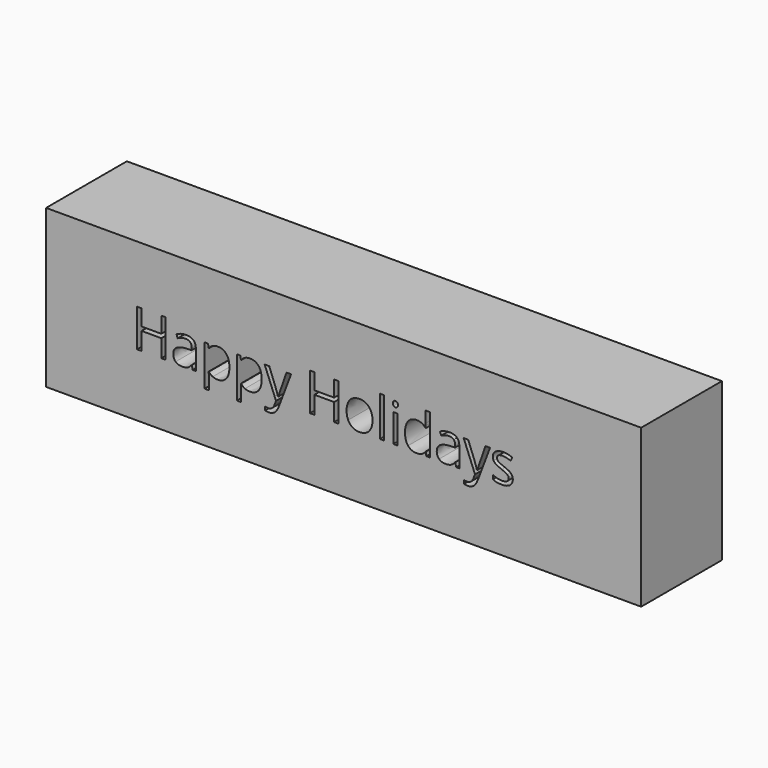
from build123d import *

# Parameters (mm, degrees)
F0_W     = 524.1265296936
F0_H     = 138.8140618801
F1_DEPTH = 12.7
F2_W     = 524.1265296936
F2_H     = 138.8140618801
F2_W_2   = 3.7591973244
F2_H_2   = 24.8078050794
F2_H_3   = 35.2234616354
F3_DEPTH = 76.2


with BuildPart() as f1:
    # F0 (on Front) → F1 (new body)
    with BuildSketch(Plane.XZ):
        Rectangle(F0_W, F0_H)
    extrude(amount=F1_DEPTH)

    # F2 (on face) → F3 (join)
    with BuildSketch(Plane.XZ.offset(12.7)):
        Rectangle(F2_W, F2_H)
        with BuildLine():
            Line((-130.1586714031, -14.2141859978), (-132.9472859886, -14.2141859978))
            Line((-132.9472859886, -14.2141859978), (-133.6933309297, -10.6795264712))
            Line((-133.6933309297, -10.6795264712), (-133.8744097989, -10.6795264712))
            add(Edge.make_bspline(
                [(-133.8744097989, -10.6795264712), (-135.7286574195, -13.0118223064), (-137.5720403078, -13.8411635273)],
                knots=[0, 0, 0, 1, 1, 1], degree=2))
            add(Edge.make_bspline(
                [(-137.5720403078, -13.8411635273), (-139.4154231962, -14.6705047482), (-142.1823083175, -14.6705047482)],
                knots=[0, 0, 0, 1, 1, 1], degree=2))
            add(Edge.make_bspline(
                [(-142.1823083175, -14.6705047482), (-145.8690740943, -14.6705047482), (-147.9623458221, -12.7655550443)],
                knots=[0, 0, 0, 1, 1, 1], degree=2))
            add(Edge.make_bspline(
                [(-147.9623458221, -12.7655550443), (-150.05561755, -10.8606053404), (-150.05561755, -7.3549184328)],
                knots=[0, 0, 0, 1, 1, 1], degree=2))
            add(Edge.make_bspline(
                [(-150.05561755, -7.3549184328), (-150.05561755, 0.1562330613), (-138.0392237904, 0.5183907997)],
                knots=[0, 0, 0, 1, 1, 1], degree=2))
            Line((-138.0392237904, 0.5183907997), (-133.8309508703, 0.6560107403))
            Line((-133.8309508703, 0.6560107403), (-133.8309508703, 2.1988027058))
            add(Edge.make_bspline(
                [(-133.8309508703, 2.1988027058), (-133.8309508703, 5.1177940772), (-135.0840166451, 6.5084797926)],
                knots=[0, 0, 0, 1, 1, 1], degree=2))
            add(Edge.make_bspline(
                [(-135.0840166451, 6.5084797926), (-136.3370824199, 7.899165508), (-139.1039675412, 7.899165508)],
                knots=[0, 0, 0, 1, 1, 1], degree=2))
            add(Edge.make_bspline(
                [(-139.1039675412, 7.899165508), (-142.2040377818, 7.899165508), (-146.1153413564, 6.0014589589)],
                knots=[0, 0, 0, 1, 1, 1], degree=2))
            Line((-146.1153413564, 6.0014589589), (-147.2742461192, 8.8769914016))
            add(Edge.make_bspline(
                [(-147.2742461192, 8.8769914016), (-145.441727963, 9.8693036048), (-143.2579168005, 10.4342696767)],
                knots=[0, 0, 0, 1, 1, 1], degree=2))
            add(Edge.make_bspline(
                [(-143.2579168005, 10.4342696767), (-141.074105638, 10.9992357486), (-138.8721865886, 10.9992357486)],
                knots=[0, 0, 0, 1, 1, 1], degree=2))
            add(Edge.make_bspline(
                [(-138.8721865886, 10.9992357486), (-134.4393758708, 10.9992357486), (-132.2990236369, 9.0327192292)],
                knots=[0, 0, 0, 1, 1, 1], degree=2))
            add(Edge.make_bspline(
                [(-132.2990236369, 9.0327192292), (-130.1586714031, 7.0662027097), (-130.1586714031, 2.7203098491)],
                knots=[0, 0, 0, 1, 1, 1], degree=2))
            Line((-130.1586714031, 2.7203098491), (-130.1586714031, -14.2141859978))
        make_face(mode=Mode.SUBTRACT)
        with BuildLine():
            add(Edge.make_bspline(
                [(-103.3046751018, -11.2843298943), (-106.0317228718, -14.6705047482), (-110.8773934114, -14.6705047482)],
                knots=[0, 0, 0, 1, 1, 1], degree=2))
            add(Edge.make_bspline(
                [(-110.8773934114, -14.6705047482), (-113.3038502586, -14.6705047482), (-115.3065825519, -13.7759751344)],
                knots=[0, 0, 0, 1, 1, 1], degree=2))
            add(Edge.make_bspline(
                [(-115.3065825519, -13.7759751344), (-117.3093148451, -12.8814455206), (-118.6637847867, -11.0199547453)],
                knots=[0, 0, 0, 1, 1, 1], degree=2))
            Line((-118.6637847867, -11.0199547453), (-118.9390246679, -11.0199547453))
            add(Edge.make_bspline(
                [(-118.9390246679, -11.0199547453), (-118.6637847867, -13.1929011756), (-118.6637847867, -15.1413098081)],
                knots=[0, 0, 0, 1, 1, 1], degree=2))
            Line((-118.6637847867, -15.1413098081), (-118.6637847867, -25.3541580306))
            Line((-118.6637847867, -25.3541580306), (-122.4229821111, -25.3541580306))
            Line((-122.4229821111, -25.3541580306), (-122.4229821111, 10.5936190816))
            Line((-122.4229821111, 10.5936190816), (-119.3663707992, 10.5936190816))
            Line((-119.3663707992, 10.5936190816), (-118.8448636559, 7.1965794955))
            Line((-118.8448636559, 7.1965794955), (-118.6637847867, 7.1965794955))
            add(Edge.make_bspline(
                [(-118.6637847867, 7.1965794955), (-117.2151538332, 9.23914914), (-115.2920962423, 10.144543486)],
                knots=[0, 0, 0, 1, 1, 1], degree=2))
            add(Edge.make_bspline(
                [(-115.2920962423, 10.144543486), (-113.3690386515, 11.049937832), (-110.8773934114, 11.049937832)],
                knots=[0, 0, 0, 1, 1, 1], degree=2))
            add(Edge.make_bspline(
                [(-110.8773934114, 11.049937832), (-105.9448050146, 11.049937832), (-103.2612161731, 7.6746277102)],
                knots=[0, 0, 0, 1, 1, 1], degree=2))
            add(Edge.make_bspline(
                [(-103.2612161731, 7.6746277102), (-100.5776273317, 4.2993175884), (-100.5776273317, -1.7849324164)],
                knots=[0, 0, 0, 1, 1, 1], degree=2))
            add(Edge.make_bspline(
                [(-100.5776273317, -1.7849324164), (-100.5776273317, -7.8981550404), (-103.3046751018, -11.2843298943)],
                knots=[0, 0, 0, 1, 1, 1], degree=2))
        make_face(mode=Mode.SUBTRACT)
        with BuildLine():
            add(Edge.make_bspline(
                [(-74.8970221028, -11.2843298943), (-77.6240698728, -14.6705047482), (-82.4697404124, -14.6705047482)],
                knots=[0, 0, 0, 1, 1, 1], degree=2))
            add(Edge.make_bspline(
                [(-82.4697404124, -14.6705047482), (-84.8961972596, -14.6705047482), (-86.8989295529, -13.7759751344)],
                knots=[0, 0, 0, 1, 1, 1], degree=2))
            add(Edge.make_bspline(
                [(-86.8989295529, -13.7759751344), (-88.9016618461, -12.8814455206), (-90.2561317877, -11.0199547453)],
                knots=[0, 0, 0, 1, 1, 1], degree=2))
            Line((-90.2561317877, -11.0199547453), (-90.5313716689, -11.0199547453))
            add(Edge.make_bspline(
                [(-90.5313716689, -11.0199547453), (-90.2561317877, -13.1929011756), (-90.2561317877, -15.1413098081)],
                knots=[0, 0, 0, 1, 1, 1], degree=2))
            Line((-90.2561317877, -15.1413098081), (-90.2561317877, -25.3541580306))
            Line((-90.2561317877, -25.3541580306), (-94.0153291122, -25.3541580306))
            Line((-94.0153291122, -25.3541580306), (-94.0153291122, 10.5936190816))
            Line((-94.0153291122, 10.5936190816), (-90.9587178002, 10.5936190816))
            Line((-90.9587178002, 10.5936190816), (-90.4372106569, 7.1965794955))
            Line((-90.4372106569, 7.1965794955), (-90.2561317877, 7.1965794955))
            add(Edge.make_bspline(
                [(-90.2561317877, 7.1965794955), (-88.8075008342, 9.23914914), (-86.8844432433, 10.144543486)],
                knots=[0, 0, 0, 1, 1, 1], degree=2))
            add(Edge.make_bspline(
                [(-86.8844432433, 10.144543486), (-84.9613856525, 11.049937832), (-82.4697404124, 11.049937832)],
                knots=[0, 0, 0, 1, 1, 1], degree=2))
            add(Edge.make_bspline(
                [(-82.4697404124, 11.049937832), (-77.5371520156, 11.049937832), (-74.8535631742, 7.6746277102)],
                knots=[0, 0, 0, 1, 1, 1], degree=2))
            add(Edge.make_bspline(
                [(-74.8535631742, 7.6746277102), (-72.1699743327, 4.2993175884), (-72.1699743327, -1.7849324164)],
                knots=[0, 0, 0, 1, 1, 1], degree=2))
            add(Edge.make_bspline(
                [(-72.1699743327, -1.7849324164), (-72.1699743327, -7.8981550404), (-74.8970221028, -11.2843298943)],
                knots=[0, 0, 0, 1, 1, 1], degree=2))
        make_face(mode=Mode.SUBTRACT)
        with BuildLine():
            Line((-59.5379124178, -14.3518059384), (-69.5479523068, 10.5936190816))
            Line((-69.5479523068, 10.5936190816), (-65.5135151012, 10.5936190816))
            Line((-65.5135151012, 10.5936190816), (-60.0811490254, -3.5522621798))
            add(Edge.make_bspline(
                [(-60.0811490254, -3.5522621798), (-58.2993329525, -8.3979327194), (-57.8647436665, -10.5491496854)],
                knots=[0, 0, 0, 1, 1, 1], degree=2))
            Line((-57.8647436665, -10.5491496854), (-57.6836647973, -10.5491496854))
            add(Edge.make_bspline(
                [(-57.6836647973, -10.5491496854), (-57.3939386066, -9.3902449225), (-56.4523284868, -6.5943871822)],
                knots=[0, 0, 0, 1, 1, 1], degree=2))
            add(Edge.make_bspline(
                [(-56.4523284868, -6.5943871822), (-55.510718367, -3.7985294419), (-50.302890089, 10.5936190816)],
                knots=[0, 0, 0, 1, 1, 1], degree=2))
            Line((-50.302890089, 10.5936190816), (-46.2756960381, 10.5936190816))
            Line((-46.2756960381, 10.5936190816), (-56.9376198562, -17.6546845125))
            add(Edge.make_bspline(
                [(-56.9376198562, -17.6546845125), (-58.5238707503, -21.8412279683), (-60.6388719425, -23.5976929994)],
                knots=[0, 0, 0, 1, 1, 1], degree=2))
            add(Edge.make_bspline(
                [(-60.6388719425, -23.5976929994), (-62.7538731347, -25.3541580306), (-65.832213911, -25.3541580306)],
                knots=[0, 0, 0, 1, 1, 1], degree=2))
            add(Edge.make_bspline(
                [(-65.832213911, -25.3541580306), (-67.5560847457, -25.3541580306), (-69.229253497, -24.9630276731)],
                knots=[0, 0, 0, 1, 1, 1], degree=2))
            Line((-69.229253497, -24.9630276731), (-69.229253497, -21.9571184445))
            add(Edge.make_bspline(
                [(-69.229253497, -21.9571184445), (-67.983430877, -22.2251151709), (-66.4478820662, -22.2251151709)],
                knots=[0, 0, 0, 1, 1, 1], degree=2))
            add(Edge.make_bspline(
                [(-66.4478820662, -22.2251151709), (-62.5727942655, -22.2251151709), (-60.9213549784, -17.8792223103)],
                knots=[0, 0, 0, 1, 1, 1], degree=2))
            Line((-60.9213549784, -17.8792223103), (-59.5379124178, -14.3518059384))
        make_face(mode=Mode.SUBTRACT)
        with BuildLine():
            add(Edge.make_bspline(
                [(22.3423306539, 7.5840882756), (25.409806698, 4.1182387193), (25.409806698, -1.7849324164)],
                knots=[0, 0, 0, 1, 1, 1], degree=2))
            add(Edge.make_bspline(
                [(25.409806698, -1.7849324164), (25.409806698, -7.8546961118), (22.3568169634, -11.26260043)],
                knots=[0, 0, 0, 1, 1, 1], degree=2))
            add(Edge.make_bspline(
                [(22.3568169634, -11.26260043), (19.3038272288, -14.6705047482), (13.9149200816, -14.6705047482)],
                knots=[0, 0, 0, 1, 1, 1], degree=2))
            add(Edge.make_bspline(
                [(13.9149200816, -14.6705047482), (10.5830688885, -14.6705047482), (8.0045057912, -13.1059833184)],
                knots=[0, 0, 0, 1, 1, 1], degree=2))
            add(Edge.make_bspline(
                [(8.0045057912, -13.1059833184), (5.4259426939, -11.5414618886), (4.0207706689, -8.6224705172)],
                knots=[0, 0, 0, 1, 1, 1], degree=2))
            add(Edge.make_bspline(
                [(4.0207706689, -8.6224705172), (2.615598644, -5.7034791458), (2.615598644, -1.7849324164)],
                knots=[0, 0, 0, 1, 1, 1], degree=2))
            add(Edge.make_bspline(
                [(2.615598644, -1.7849324164), (2.615598644, 4.2775881241), (5.6504804917, 7.6637629781)],
                knots=[0, 0, 0, 1, 1, 1], degree=2))
            add(Edge.make_bspline(
                [(5.6504804917, 7.6637629781), (8.6853623393, 11.049937832), (14.0742694865, 11.049937832)],
                knots=[0, 0, 0, 1, 1, 1], degree=2))
            add(Edge.make_bspline(
                [(14.0742694865, 11.049937832), (19.2748546097, 11.049937832), (22.3423306539, 7.5840882756)],
                knots=[0, 0, 0, 1, 1, 1], degree=2))
        make_face(mode=Mode.SUBTRACT)
        with Locations((45.6073437678, -1.8102834581)):
            Rectangle(F2_W_2, F2_H_2, mode=Mode.SUBTRACT)
        with BuildLine():
            Line((101.9047641999, -14.2141859978), (99.1161496143, -14.2141859978))
            Line((99.1161496143, -14.2141859978), (98.3701046732, -10.6795264712))
            Line((98.3701046732, -10.6795264712), (98.1890258041, -10.6795264712))
            add(Edge.make_bspline(
                [(98.1890258041, -10.6795264712), (96.3347781835, -13.0118223064), (94.4913952951, -13.8411635273)],
                knots=[0, 0, 0, 1, 1, 1], degree=2))
            add(Edge.make_bspline(
                [(94.4913952951, -13.8411635273), (92.6480124067, -14.6705047482), (89.8811272855, -14.6705047482)],
                knots=[0, 0, 0, 1, 1, 1], degree=2))
            add(Edge.make_bspline(
                [(89.8811272855, -14.6705047482), (86.1943615087, -14.6705047482), (84.1010897808, -12.7655550443)],
                knots=[0, 0, 0, 1, 1, 1], degree=2))
            add(Edge.make_bspline(
                [(84.1010897808, -12.7655550443), (82.007818053, -10.8606053404), (82.007818053, -7.3549184328)],
                knots=[0, 0, 0, 1, 1, 1], degree=2))
            add(Edge.make_bspline(
                [(82.007818053, -7.3549184328), (82.007818053, 0.1562330613), (94.0242118126, 0.5183907997)],
                knots=[0, 0, 0, 1, 1, 1], degree=2))
            Line((94.0242118126, 0.5183907997), (98.2324847327, 0.6560107403))
            Line((98.2324847327, 0.6560107403), (98.2324847327, 2.1988027058))
            add(Edge.make_bspline(
                [(98.2324847327, 2.1988027058), (98.2324847327, 5.1177940772), (96.9794189578, 6.5084797926)],
                knots=[0, 0, 0, 1, 1, 1], degree=2))
            add(Edge.make_bspline(
                [(96.9794189578, 6.5084797926), (95.726353183, 7.899165508), (92.9594680618, 7.899165508)],
                knots=[0, 0, 0, 1, 1, 1], degree=2))
            add(Edge.make_bspline(
                [(92.9594680618, 7.899165508), (89.8593978212, 7.899165508), (85.9480942466, 6.0014589589)],
                knots=[0, 0, 0, 1, 1, 1], degree=2))
            Line((85.9480942466, 6.0014589589), (84.7891894838, 8.8769914016))
            add(Edge.make_bspline(
                [(84.7891894838, 8.8769914016), (86.62170764, 9.8693036048), (88.8055188025, 10.4342696767)],
                knots=[0, 0, 0, 1, 1, 1], degree=2))
            add(Edge.make_bspline(
                [(88.8055188025, 10.4342696767), (90.9893299649, 10.9992357486), (93.1912490143, 10.9992357486)],
                knots=[0, 0, 0, 1, 1, 1], degree=2))
            add(Edge.make_bspline(
                [(93.1912490143, 10.9992357486), (97.6240597322, 10.9992357486), (99.764411966, 9.0327192292)],
                knots=[0, 0, 0, 1, 1, 1], degree=2))
            add(Edge.make_bspline(
                [(99.764411966, 9.0327192292), (101.9047641999, 7.0662027097), (101.9047641999, 2.7203098491)],
                knots=[0, 0, 0, 1, 1, 1], degree=2))
            Line((101.9047641999, 2.7203098491), (101.9047641999, -14.2141859978))
        make_face(mode=Mode.SUBTRACT)
        with BuildLine():
            Line((115.7102171872, -14.3518059384), (105.7001772982, 10.5936190816))
            Line((105.7001772982, 10.5936190816), (109.7346145038, 10.5936190816))
            Line((109.7346145038, 10.5936190816), (115.1669805796, -3.5522621798))
            add(Edge.make_bspline(
                [(115.1669805796, -3.5522621798), (116.9487966524, -8.3979327194), (117.3833859385, -10.5491496854)],
                knots=[0, 0, 0, 1, 1, 1], degree=2))
            Line((117.3833859385, -10.5491496854), (117.5644648077, -10.5491496854))
            add(Edge.make_bspline(
                [(117.5644648077, -10.5491496854), (117.8541909984, -9.3902449225), (118.7958011182, -6.5943871822)],
                knots=[0, 0, 0, 1, 1, 1], degree=2))
            add(Edge.make_bspline(
                [(118.7958011182, -6.5943871822), (119.737411238, -3.7985294419), (124.945239516, 10.5936190816)],
                knots=[0, 0, 0, 1, 1, 1], degree=2))
            Line((124.945239516, 10.5936190816), (128.9724335669, 10.5936190816))
            Line((128.9724335669, 10.5936190816), (118.3105097488, -17.6546845125))
            add(Edge.make_bspline(
                [(118.3105097488, -17.6546845125), (116.7242588546, -21.8412279683), (114.6092576625, -23.5976929994)],
                knots=[0, 0, 0, 1, 1, 1], degree=2))
            add(Edge.make_bspline(
                [(114.6092576625, -23.5976929994), (112.4942564703, -25.3541580306), (109.415915694, -25.3541580306)],
                knots=[0, 0, 0, 1, 1, 1], degree=2))
            add(Edge.make_bspline(
                [(109.415915694, -25.3541580306), (107.6920448593, -25.3541580306), (106.018876108, -24.9630276731)],
                knots=[0, 0, 0, 1, 1, 1], degree=2))
            Line((106.018876108, -24.9630276731), (106.018876108, -21.9571184445))
            add(Edge.make_bspline(
                [(106.018876108, -21.9571184445), (107.264698728, -22.2251151709), (108.8002475388, -22.2251151709)],
                knots=[0, 0, 0, 1, 1, 1], degree=2))
            add(Edge.make_bspline(
                [(108.8002475388, -22.2251151709), (112.6753353395, -22.2251151709), (114.3267746265, -17.8792223103)],
                knots=[0, 0, 0, 1, 1, 1], degree=2))
            Line((114.3267746265, -17.8792223103), (115.7102171872, -14.3518059384))
        make_face(mode=Mode.SUBTRACT)
        with BuildLine():
            add(Edge.make_bspline(
                [(147.4497213793, -3.3494538463), (148.9997564996, -4.979163669), (148.9997564996, -7.4490794448)],
                knots=[0, 0, 0, 1, 1, 1], degree=2))
            add(Edge.make_bspline(
                [(148.9997564996, -7.4490794448), (148.9997564996, -10.9113074238), (146.4211934023, -12.790906086)],
                knots=[0, 0, 0, 1, 1, 1], degree=2))
            add(Edge.make_bspline(
                [(146.4211934023, -12.790906086), (143.842630305, -14.6705047482), (139.1780386346, -14.6705047482)],
                knots=[0, 0, 0, 1, 1, 1], degree=2))
            add(Edge.make_bspline(
                [(139.1780386346, -14.6705047482), (134.2454502378, -14.6705047482), (131.4858082713, -13.1059833184)],
                knots=[0, 0, 0, 1, 1, 1], degree=2))
            Line((131.4858082713, -13.1059833184), (131.4858082713, -9.6220258751))
            add(Edge.make_bspline(
                [(131.4858082713, -9.6220258751), (133.2748674989, -10.5274202211), (135.3210587208, -11.045305787)],
                knots=[0, 0, 0, 1, 1, 1], degree=2))
            add(Edge.make_bspline(
                [(135.3210587208, -11.045305787), (137.3672499426, -11.5631913529), (139.2721996466, -11.5631913529)],
                knots=[0, 0, 0, 1, 1, 1], degree=2))
            add(Edge.make_bspline(
                [(139.2721996466, -11.5631913529), (142.2129204823, -11.5631913529), (143.795549799, -10.6252028104)],
                knots=[0, 0, 0, 1, 1, 1], degree=2))
            add(Edge.make_bspline(
                [(143.795549799, -10.6252028104), (145.3781791157, -9.687214268), (145.3781791157, -7.7605350998)],
                knots=[0, 0, 0, 1, 1, 1], degree=2))
            add(Edge.make_bspline(
                [(145.3781791157, -7.7605350998), (145.3781791157, -6.3119041463), (144.1251133409, -5.2833761692)],
                knots=[0, 0, 0, 1, 1, 1], degree=2))
            add(Edge.make_bspline(
                [(144.1251133409, -5.2833761692), (142.8720475661, -4.2548481922), (139.2214975632, -2.8496761673)],
                knots=[0, 0, 0, 1, 1, 1], degree=2))
            add(Edge.make_bspline(
                [(139.2214975632, -2.8496761673), (135.7592695842, -1.5603946186), (134.2997738985, -0.5970550345)],
                knots=[0, 0, 0, 1, 1, 1], degree=2))
            add(Edge.make_bspline(
                [(134.2997738985, -0.5970550345), (132.8402782128, 0.3662845496), (132.1268274682, 1.5867561279)],
                knots=[0, 0, 0, 1, 1, 1], degree=2))
            add(Edge.make_bspline(
                [(132.1268274682, 1.5867561279), (131.4133767236, 2.8072277063), (131.4133767236, 4.5021259219)],
                knots=[0, 0, 0, 1, 1, 1], degree=2))
            add(Edge.make_bspline(
                [(131.4133767236, 4.5021259219), (131.4133767236, 7.5370077696), (133.8832924994, 9.2934728008)],
                knots=[0, 0, 0, 1, 1, 1], degree=2))
            add(Edge.make_bspline(
                [(133.8832924994, 9.2934728008), (136.3532082752, 11.049937832), (140.6483990524, 11.049937832)],
                knots=[0, 0, 0, 1, 1, 1], degree=2))
            add(Edge.make_bspline(
                [(140.6483990524, 11.049937832), (144.653863639, 11.049937832), (148.4854925111, 9.4202280092)],
                knots=[0, 0, 0, 1, 1, 1], degree=2))
            Line((148.4854925111, 9.4202280092), (147.1455088791, 6.3636166972))
            add(Edge.make_bspline(
                [(147.1455088791, 6.3636166972), (143.4152841737, 7.899165508), (140.380402326, 7.899165508)],
                knots=[0, 0, 0, 1, 1, 1], degree=2))
            add(Edge.make_bspline(
                [(140.380402326, 7.899165508), (137.7076782167, 7.899165508), (136.3495866978, 7.0625811323)],
                knots=[0, 0, 0, 1, 1, 1], degree=2))
            add(Edge.make_bspline(
                [(136.3495866978, 7.0625811323), (134.9914951788, 6.2259967567), (134.9914951788, 4.7556363388)],
                knots=[0, 0, 0, 1, 1, 1], degree=2))
            add(Edge.make_bspline(
                [(134.9914951788, 4.7556363388), (134.9914951788, 3.7560809809), (135.50213759, 3.0571165458)],
                knots=[0, 0, 0, 1, 1, 1], degree=2))
            add(Edge.make_bspline(
                [(135.50213759, 3.0571165458), (136.0127800011, 2.3581521107), (137.1427121449, 1.7243760685)],
                knots=[0, 0, 0, 1, 1, 1], degree=2))
            add(Edge.make_bspline(
                [(137.1427121449, 1.7243760685), (138.2726442886, 1.0906000263), (141.4886050055, -0.1117636651)],
                knots=[0, 0, 0, 1, 1, 1], degree=2))
            add(Edge.make_bspline(
                [(141.4886050055, -0.1117636651), (145.899686259, -1.7197440235), (147.4497213793, -3.3494538463)],
                knots=[0, 0, 0, 1, 1, 1], degree=2))
        make_face(mode=Mode.SUBTRACT)
        Polygon((-156.7120767815, 18.8797881359), (-156.7120767815, -14.2141859978), (-160.5581919632, -14.2141859978), (-160.5581919632, 1.3585967528), (-177.9924654891, 1.3585967528), (-177.9924654891, -14.2141859978), (-181.8385806708, -14.2141859978), (-181.8385806708, 18.8797881359), (-177.9924654891, 18.8797881359), (-177.9924654891, 4.7990952674), (-160.5581919632, 4.7990952674), (-160.5581919632, 18.8797881359), align=None, mode=Mode.SUBTRACT)
        Polygon((-4.5116656474, 18.8797881359), (-4.5116656474, -14.2141859978), (-8.3577808291, -14.2141859978), (-8.3577808291, 1.3585967528), (-25.792054355, 1.3585967528), (-25.792054355, -14.2141859978), (-29.6381695367, -14.2141859978), (-29.6381695367, 18.8797881359), (-25.792054355, 18.8797881359), (-25.792054355, 4.7990952674), (-8.3577808291, 4.7990952674), (-8.3577808291, 18.8797881359), align=None, mode=Mode.SUBTRACT)
        with Locations((33.8806761989, 3.3975448199)):
            Rectangle(F2_W_2, F2_H_3, mode=Mode.SUBTRACT)
        with BuildLine():
            Line((72.837984117, -14.2141859978), (72.3382064381, -10.8895779595))
            Line((72.3382064381, -10.8895779595), (72.1353981046, -10.8895779595))
            add(Edge.make_bspline(
                [(72.1353981046, -10.8895779595), (69.535105543, -14.6705047482), (64.3490067293, -14.6705047482)],
                knots=[0, 0, 0, 1, 1, 1], degree=2))
            add(Edge.make_bspline(
                [(64.3490067293, -14.6705047482), (59.4816067254, -14.6705047482), (56.7762884196, -11.3422751324)],
                knots=[0, 0, 0, 1, 1, 1], degree=2))
            add(Edge.make_bspline(
                [(56.7762884196, -11.3422751324), (54.0709701139, -8.0140455167), (54.0709701139, -1.8790934284)],
                knots=[0, 0, 0, 1, 1, 1], degree=2))
            add(Edge.make_bspline(
                [(54.0709701139, -1.8790934284), (54.0709701139, 4.2558586598), (56.7871531518, 7.6528982459)],
                knots=[0, 0, 0, 1, 1, 1], degree=2))
            add(Edge.make_bspline(
                [(56.7871531518, 7.6528982459), (59.5033361897, 11.049937832), (64.3490067293, 11.049937832)],
                knots=[0, 0, 0, 1, 1, 1], degree=2))
            add(Edge.make_bspline(
                [(64.3490067293, 11.049937832), (69.3974856024, 11.049937832), (72.091939176, 7.3776583647)],
                knots=[0, 0, 0, 1, 1, 1], degree=2))
            Line((72.091939176, 7.3776583647), (72.3889085214, 7.3776583647))
            Line((72.3889085214, 7.3776583647), (72.2295591165, 9.1667175924))
            Line((72.2295591165, 9.1667175924), (72.1353981046, 10.9123178914))
            Line((72.1353981046, 10.9123178914), (72.1353981046, 21.0092756376))
            Line((72.1353981046, 21.0092756376), (75.894595429, 21.0092756376))
            Line((75.894595429, 21.0092756376), (75.894595429, -14.2141859978))
            Line((75.894595429, -14.2141859978), (72.837984117, -14.2141859978))
        make_face(mode=Mode.SUBTRACT)
        with BuildLine():
            add(Edge.make_bspline(
                [(44.042822338, 15.4248033117), (43.4090462958, 16.0477146217), (43.4090462958, 17.315266706)],
                knots=[0, 0, 0, 1, 1, 1], degree=2))
            add(Edge.make_bspline(
                [(43.4090462958, 17.315266706), (43.4090462958, 18.6045482547), (44.042822338, 19.2057301004)],
                knots=[0, 0, 0, 1, 1, 1], degree=2))
            add(Edge.make_bspline(
                [(44.042822338, 19.2057301004), (44.6765983801, 19.8069119461), (45.6326948095, 19.8069119461)],
                knots=[0, 0, 0, 1, 1, 1], degree=2))
            add(Edge.make_bspline(
                [(45.6326948095, 19.8069119461), (46.5380891554, 19.8069119461), (47.1935946619, 19.1948653683)],
                knots=[0, 0, 0, 1, 1, 1], degree=2))
            add(Edge.make_bspline(
                [(47.1935946619, 19.1948653683), (47.8491001684, 18.5828187904), (47.8491001684, 17.315266706)],
                knots=[0, 0, 0, 1, 1, 1], degree=2))
            add(Edge.make_bspline(
                [(47.8491001684, 17.315266706), (47.8491001684, 16.0477146217), (47.1935946619, 15.4248033117)],
                knots=[0, 0, 0, 1, 1, 1], degree=2))
            add(Edge.make_bspline(
                [(47.1935946619, 15.4248033117), (46.5380891554, 14.8018920016), (45.6326948095, 14.8018920016)],
                knots=[0, 0, 0, 1, 1, 1], degree=2))
            add(Edge.make_bspline(
                [(45.6326948095, 14.8018920016), (44.6765983801, 14.8018920016), (44.042822338, 15.4248033117)],
                knots=[0, 0, 0, 1, 1, 1], degree=2))
        make_face(mode=Mode.SUBTRACT)
    extrude(amount=F3_DEPTH)


solid = f1.part
